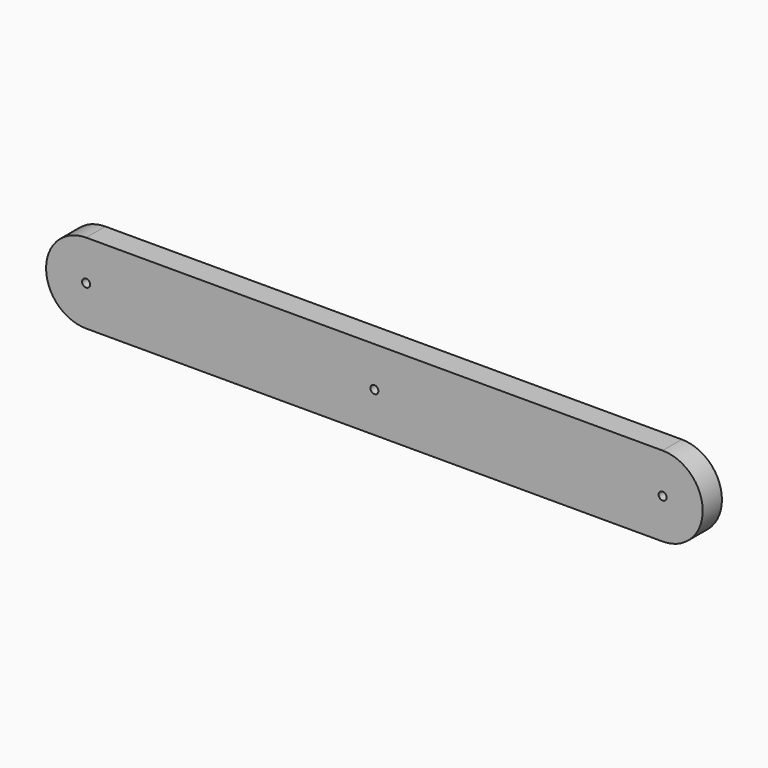
from build123d import *

# Parameters (mm, degrees)
F0_W     = 457.2
F0_H     = 63.5
F1_DEPTH = 19.05
F3_D     = 6.35


with BuildPart() as f1:
    # F0 (on Front) → F1 (new body)
    with BuildSketch(Plane.XZ):
        with Locations((228.6, 0)):
            Rectangle(F0_W, F0_H)
        with BuildLine():
            ThreePointArc((0, 31.75), (-31.75, 0), (0, -31.75))
            Line((0, -31.75), (0, 31.75))
        make_face()
        with BuildLine():
            Line((457.2, 31.75), (457.2, -31.75))
            ThreePointArc((457.2, -31.75), (488.95, 0), (457.2, 31.75))
        make_face()
    extrude(amount=F1_DEPTH)

    # F3 (through all)
    with Locations(Plane(origin=(0, 0, 0), x_dir=(-1, 0, 0), z_dir=(0, 1, 0))):
        with Locations((-457.2, 0), (0, 0), (-228.6, 0)):
            Hole(F3_D / 2)


solid = f1.part
